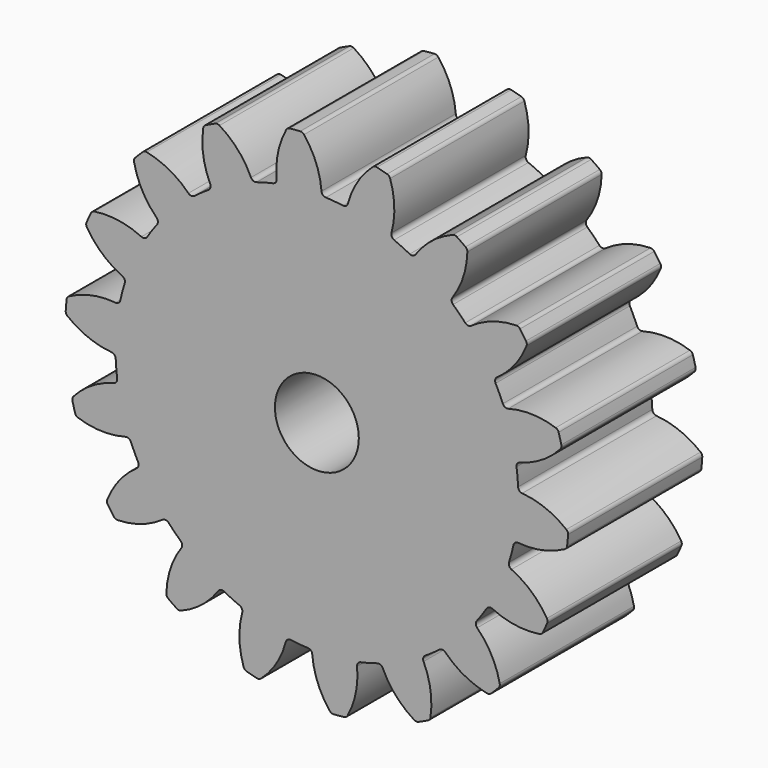
from build123d import *

# Parameters (mm, degrees)
F1_DEPTH = 4
F2_R     = 1
F3_DEPTH = 25


with BuildPart() as f1:
    # F0 (on Front) → F1 (new body)
    with BuildSketch(Plane.XZ):
        with BuildLine():
            ThreePointArc((0.110709, 4.894297), (-0.019503, 5.451317), (-0.306201, 5.946323))
            ThreePointArc((-0.306201, 5.946323), (-0.347043, 5.977827), (-0.397838, 5.986796))
            ThreePointArc((-0.397838, 5.986796), (-0.522934, 5.977168), (-0.647802, 5.964927))
            ThreePointArc((-0.647802, 5.964927), (-0.696268, 5.947274), (-0.731019, 5.909156))
            ThreePointArc((-0.731019, 5.909156), (-0.927405, 5.371886), (-0.958913, 4.800717))
            ThreePointArc((-0.958913, 4.800717), (-0.979159, 4.727143), (-1.042984, 4.685316))
            ThreePointArc((-1.042984, 4.685316), (-1.242331, 4.636444), (-1.439408, 4.579094))
            ThreePointArc((-1.439408, 4.579094), (-2.028568, 4.350277), (-2.582556, 4.046035))
            ThreePointArc((-2.582556, 4.046035), (-2.753167, 3.93193), (-2.918743, 3.810635))
            ThreePointArc((-2.918743, 3.810635), (-3.394113, 3.394113), (-3.810635, 2.918743))
            ThreePointArc((-3.810635, 2.918743), (-3.93193, 2.753167), (-4.046035, 2.582556))
            ThreePointArc((-4.046035, 2.582556), (-4.350277, 2.028568), (-4.579094, 1.439408))
            ThreePointArc((-4.579094, 1.439408), (-4.636444, 1.242331), (-4.685316, 1.042984))
            ThreePointArc((-4.685316, 1.042984), (-4.781735, 0.418348), (-4.795248, -0.213542))
            ThreePointArc((-4.795248, -0.213542), (-4.781735, -0.418348), (-4.759478, -0.622388))
            ThreePointArc((-4.759478, -0.622388), (-4.636444, -1.242331), (-4.433023, -1.840735))
            ThreePointArc((-4.433023, -1.840735), (-4.350277, -2.028568), (-4.259577, -2.212691))
            ThreePointArc((-4.259577, -2.212691), (-3.93193, -2.753167), (-3.536111, -3.245908))
            ThreePointArc((-3.536111, -3.245908), (-3.394113, -3.394113), (-3.245908, -3.536111))
            ThreePointArc((-3.245908, -3.536111), (-2.753167, -3.93193), (-2.212691, -4.259577))
            ThreePointArc((-2.212691, -4.259577), (-2.028568, -4.350277), (-1.840735, -4.433023))
            ThreePointArc((-1.840735, -4.433023), (-1.242331, -4.636444), (-0.622388, -4.759478))
            ThreePointArc((-0.622388, -4.759478), (-0.418348, -4.781735), (-0.213542, -4.795248))
            ThreePointArc((-0.213542, -4.795248), (0.418348, -4.781735), (1.042984, -4.685316))
            ThreePointArc((1.042984, -4.685316), (1.242331, -4.636444), (1.439408, -4.579094))
            ThreePointArc((1.439408, -4.579094), (2.028568, -4.350277), (2.582556, -4.046035))
            ThreePointArc((2.582556, -4.046035), (2.753167, -3.93193), (2.918743, -3.810635))
            ThreePointArc((2.918743, -3.810635), (3.394113, -3.394113), (3.810635, -2.918743))
            ThreePointArc((3.810635, -2.918743), (3.93193, -2.753167), (4.046035, -2.582556))
            ThreePointArc((4.046035, -2.582556), (4.350277, -2.028568), (4.579094, -1.439408))
            ThreePointArc((4.579094, -1.439408), (4.636444, -1.242331), (4.685316, -1.042984))
            ThreePointArc((4.685316, -1.042984), (4.781735, -0.418348), (4.795248, 0.213542))
            ThreePointArc((4.795248, 0.213542), (4.781735, 0.418348), (4.759478, 0.622388))
            ThreePointArc((4.759478, 0.622388), (4.636444, 1.242331), (4.433023, 1.840735))
            ThreePointArc((4.433023, 1.840735), (4.350277, 2.028568), (4.259577, 2.212691))
            ThreePointArc((4.259577, 2.212691), (3.93193, 2.753167), (3.536111, 3.245908))
            ThreePointArc((3.536111, 3.245908), (3.394113, 3.394113), (3.245908, 3.536111))
            ThreePointArc((3.245908, 3.536111), (2.753167, 3.93193), (2.212691, 4.259577))
            ThreePointArc((2.212691, 4.259577), (2.028568, 4.350277), (1.840735, 4.433023))
            ThreePointArc((1.840735, 4.433023), (1.242331, 4.636444), (0.622388, 4.759478))
            ThreePointArc((0.622388, 4.759478), (0.418348, 4.781735), (0.213542, 4.795248))
            ThreePointArc((0.213542, 4.795248), (0.143423, 4.825356), (0.110709, 4.894297))
        make_face()
        with BuildLine():
            ThreePointArc((0.740859, 4.839166), (0.69667, 4.776953), (0.622388, 4.759478))
            ThreePointArc((0.622388, 4.759478), (1.242331, 4.636444), (1.840735, 4.433023))
            ThreePointArc((1.840735, 4.433023), (1.785143, 4.485298), (1.777981, 4.56127))
            ThreePointArc((1.777981, 4.56127), (1.846134, 5.129233), (1.746027, 5.692443))
            ThreePointArc((1.746027, 5.692443), (1.718423, 5.736016), (1.673759, 5.761817))
            ThreePointArc((1.673759, 5.761817), (1.552914, 5.795555), (1.43139, 5.826759))
            ThreePointArc((1.43139, 5.826759), (1.37981, 5.826747), (1.334118, 5.802814))
            ThreePointArc((1.334118, 5.802814), (0.965818, 5.365113), (0.740859, 4.839166))
        make_face()
        with BuildLine():
            ThreePointArc((2.351272, 4.29394), (2.28847, 4.250592), (2.212691, 4.259577))
            ThreePointArc((2.212691, 4.259577), (2.753167, 3.93193), (3.245908, 3.536111))
            ThreePointArc((3.245908, 3.536111), (3.211547, 3.604246), (3.230802, 3.678087))
            ThreePointArc((3.230802, 3.678087), (3.489099, 4.188488), (3.587659, 4.75197))
            ThreePointArc((3.587659, 4.75197), (3.576622, 4.802356), (3.543477, 4.841877))
            ThreePointArc((3.543477, 4.841877), (3.441459, 4.914912), (3.337936, 4.985798))
            ThreePointArc((3.337936, 4.985798), (3.289462, 5.003428), (3.23834, 4.996566))
            ThreePointArc((3.23834, 4.996566), (2.742549, 4.711228), (2.351272, 4.29394))
        make_face()
        with BuildLine():
            ThreePointArc((-2.582556, 4.046035), (-2.028568, 4.350277), (-1.439408, 4.579094))
            ThreePointArc((-1.439408, 4.579094), (-1.515595, 4.583405), (-1.569916, 4.637))
            ThreePointArc((-1.569916, 4.637), (-1.882787, 5.115892), (-2.321497, 5.482989))
            ThreePointArc((-2.321497, 5.482989), (-2.370651, 5.498624), (-2.42145, 5.489679))
            ThreePointArc((-2.42145, 5.489679), (-2.53571, 5.437847), (-2.64886, 5.383636))
            ThreePointArc((-2.64886, 5.383636), (-2.688365, 5.350472), (-2.707983, 5.302767))
            ThreePointArc((-2.707983, 5.302767), (-2.708769, 4.730731), (-2.543026, 4.183231))
            ThreePointArc((-2.543026, 4.183231), (-2.536886, 4.107169), (-2.582556, 4.046035))
        make_face()
        with BuildLine():
            ThreePointArc((3.678087, 3.230802), (3.604246, 3.211547), (3.536111, 3.245908))
            ThreePointArc((3.536111, 3.245908), (3.93193, 2.753167), (4.259577, 2.212691))
            ThreePointArc((4.259577, 2.212691), (4.250592, 2.28847), (4.29394, 2.351272))
            ThreePointArc((4.29394, 2.351272), (4.711228, 2.742549), (4.996566, 3.23834))
            ThreePointArc((4.996566, 3.23834), (5.003428, 3.289462), (4.985798, 3.337936))
            ThreePointArc((4.985798, 3.337936), (4.914912, 3.441459), (4.841877, 3.543477))
            ThreePointArc((4.841877, 3.543477), (4.802356, 3.576622), (4.75197, 3.587659))
            ThreePointArc((4.75197, 3.587659), (4.188488, 3.489099), (3.678087, 3.230802))
        make_face()
        with BuildLine():
            ThreePointArc((-3.810635, 2.918743), (-3.394113, 3.394113), (-2.918743, 3.810635))
            ThreePointArc((-2.918743, 3.810635), (-2.99181, 3.788628), (-3.061185, 3.820412))
            ThreePointArc((-3.061185, 3.820412), (-3.518979, 4.163415), (-4.056787, 4.358325))
            ThreePointArc((-4.056787, 4.358325), (-4.108324, 4.356206), (-4.153, 4.330426))
            ThreePointArc((-4.153, 4.330426), (-4.242641, 4.242641), (-4.330426, 4.153))
            ThreePointArc((-4.330426, 4.153), (-4.356206, 4.108324), (-4.358325, 4.056787))
            ThreePointArc((-4.358325, 4.056787), (-4.163415, 3.518979), (-3.820412, 3.061185))
            ThreePointArc((-3.820412, 3.061185), (-3.788628, 2.99181), (-3.810635, 2.918743))
        make_face()
        with BuildLine():
            ThreePointArc((4.56127, 1.777981), (4.485298, 1.785143), (4.433023, 1.840735))
            ThreePointArc((4.433023, 1.840735), (4.636444, 1.242331), (4.759478, 0.622388))
            ThreePointArc((4.759478, 0.622388), (4.776953, 0.69667), (4.839166, 0.740859))
            ThreePointArc((4.839166, 0.740859), (5.365113, 0.965818), (5.802814, 1.334118))
            ThreePointArc((5.802814, 1.334118), (5.826747, 1.37981), (5.826759, 1.43139))
            ThreePointArc((5.826759, 1.43139), (5.795555, 1.552914), (5.761817, 1.673759))
            ThreePointArc((5.761817, 1.673759), (5.736016, 1.718423), (5.692443, 1.746027))
            ThreePointArc((5.692443, 1.746027), (5.129233, 1.846134), (4.56127, 1.777981))
        make_face()
        with BuildLine():
            ThreePointArc((-4.579094, 1.439408), (-4.350277, 2.028568), (-4.046035, 2.582556))
            ThreePointArc((-4.046035, 2.582556), (-4.107169, 2.536886), (-4.183231, 2.543026))
            ThreePointArc((-4.183231, 2.543026), (-4.730731, 2.708769), (-5.302767, 2.707983))
            ThreePointArc((-5.302767, 2.707983), (-5.350472, 2.688365), (-5.383636, 2.64886))
            ThreePointArc((-5.383636, 2.64886), (-5.437847, 2.53571), (-5.489679, 2.42145))
            ThreePointArc((-5.489679, 2.42145), (-5.498624, 2.370651), (-5.482989, 2.321497))
            ThreePointArc((-5.482989, 2.321497), (-5.115892, 1.882787), (-4.637, 1.569916))
            ThreePointArc((-4.637, 1.569916), (-4.583405, 1.515595), (-4.579094, 1.439408))
        make_face()
        with BuildLine():
            ThreePointArc((4.894297, 0.110709), (4.825356, 0.143423), (4.795248, 0.213542))
            ThreePointArc((4.795248, 0.213542), (4.781735, -0.418348), (4.685316, -1.042984))
            ThreePointArc((4.685316, -1.042984), (4.727143, -0.979159), (4.800717, -0.958913))
            ThreePointArc((4.800717, -0.958913), (5.371886, -0.927405), (5.909156, -0.731019))
            ThreePointArc((5.909156, -0.731019), (5.947274, -0.696268), (5.964927, -0.647802))
            ThreePointArc((5.964927, -0.647802), (5.977168, -0.522934), (5.986796, -0.397838))
            ThreePointArc((5.986796, -0.397838), (5.977827, -0.347043), (5.946323, -0.306201))
            ThreePointArc((5.946323, -0.306201), (5.451317, -0.019503), (4.894297, 0.110709))
        make_face()
        with BuildLine():
            ThreePointArc((-4.795248, -0.213542), (-4.781735, 0.418348), (-4.685316, 1.042984))
            ThreePointArc((-4.685316, 1.042984), (-4.727143, 0.979159), (-4.800717, 0.958913))
            ThreePointArc((-4.800717, 0.958913), (-5.371886, 0.927405), (-5.909156, 0.731019))
            ThreePointArc((-5.909156, 0.731019), (-5.947274, 0.696268), (-5.964927, 0.647802))
            ThreePointArc((-5.964927, 0.647802), (-5.977168, 0.522934), (-5.986796, 0.397838))
            ThreePointArc((-5.986796, 0.397838), (-5.977827, 0.347043), (-5.946323, 0.306201))
            ThreePointArc((-5.946323, 0.306201), (-5.451317, 0.019503), (-4.894297, -0.110709))
            ThreePointArc((-4.894297, -0.110709), (-4.825356, -0.143423), (-4.795248, -0.213542))
        make_face()
        with BuildLine():
            ThreePointArc((4.637, -1.569916), (4.583405, -1.515595), (4.579094, -1.439408))
            ThreePointArc((4.579094, -1.439408), (4.350277, -2.028568), (4.046035, -2.582556))
            ThreePointArc((4.046035, -2.582556), (4.107169, -2.536886), (4.183231, -2.543026))
            ThreePointArc((4.183231, -2.543026), (4.730731, -2.708769), (5.302767, -2.707983))
            ThreePointArc((5.302767, -2.707983), (5.350472, -2.688365), (5.383636, -2.64886))
            ThreePointArc((5.383636, -2.64886), (5.437847, -2.53571), (5.489679, -2.42145))
            ThreePointArc((5.489679, -2.42145), (5.498624, -2.370651), (5.482989, -2.321497))
            ThreePointArc((5.482989, -2.321497), (5.115892, -1.882787), (4.637, -1.569916))
        make_face()
        with BuildLine():
            ThreePointArc((-4.433023, -1.840735), (-4.636444, -1.242331), (-4.759478, -0.622388))
            ThreePointArc((-4.759478, -0.622388), (-4.776953, -0.69667), (-4.839166, -0.740859))
            ThreePointArc((-4.839166, -0.740859), (-5.365113, -0.965818), (-5.802814, -1.334118))
            ThreePointArc((-5.802814, -1.334118), (-5.826747, -1.37981), (-5.826759, -1.43139))
            ThreePointArc((-5.826759, -1.43139), (-5.795555, -1.552914), (-5.761817, -1.673759))
            ThreePointArc((-5.761817, -1.673759), (-5.736016, -1.718423), (-5.692443, -1.746027))
            ThreePointArc((-5.692443, -1.746027), (-5.129233, -1.846134), (-4.56127, -1.777981))
            ThreePointArc((-4.56127, -1.777981), (-4.485298, -1.785143), (-4.433023, -1.840735))
        make_face()
        with BuildLine():
            ThreePointArc((3.820412, -3.061185), (3.788628, -2.99181), (3.810635, -2.918743))
            ThreePointArc((3.810635, -2.918743), (3.394113, -3.394113), (2.918743, -3.810635))
            ThreePointArc((2.918743, -3.810635), (2.99181, -3.788628), (3.061185, -3.820412))
            ThreePointArc((3.061185, -3.820412), (3.518979, -4.163415), (4.056787, -4.358325))
            ThreePointArc((4.056787, -4.358325), (4.108324, -4.356206), (4.153, -4.330426))
            ThreePointArc((4.153, -4.330426), (4.242641, -4.242641), (4.330426, -4.153))
            ThreePointArc((4.330426, -4.153), (4.356206, -4.108324), (4.358325, -4.056787))
            ThreePointArc((4.358325, -4.056787), (4.163415, -3.518979), (3.820412, -3.061185))
        make_face()
        with BuildLine():
            ThreePointArc((-3.536111, -3.245908), (-3.93193, -2.753167), (-4.259577, -2.212691))
            ThreePointArc((-4.259577, -2.212691), (-4.250592, -2.28847), (-4.29394, -2.351272))
            ThreePointArc((-4.29394, -2.351272), (-4.711228, -2.742549), (-4.996566, -3.23834))
            ThreePointArc((-4.996566, -3.23834), (-5.003428, -3.289462), (-4.985798, -3.337936))
            ThreePointArc((-4.985798, -3.337936), (-4.914912, -3.441459), (-4.841877, -3.543477))
            ThreePointArc((-4.841877, -3.543477), (-4.802356, -3.576622), (-4.75197, -3.587659))
            ThreePointArc((-4.75197, -3.587659), (-4.188488, -3.489099), (-3.678087, -3.230802))
            ThreePointArc((-3.678087, -3.230802), (-3.604246, -3.211547), (-3.536111, -3.245908))
        make_face()
        with BuildLine():
            ThreePointArc((2.543026, -4.183231), (2.536886, -4.107169), (2.582556, -4.046035))
            ThreePointArc((2.582556, -4.046035), (2.028568, -4.350277), (1.439408, -4.579094))
            ThreePointArc((1.439408, -4.579094), (1.515595, -4.583405), (1.569916, -4.637))
            ThreePointArc((1.569916, -4.637), (1.882787, -5.115892), (2.321497, -5.482989))
            ThreePointArc((2.321497, -5.482989), (2.370651, -5.498624), (2.42145, -5.489679))
            ThreePointArc((2.42145, -5.489679), (2.53571, -5.437847), (2.64886, -5.383636))
            ThreePointArc((2.64886, -5.383636), (2.688365, -5.350472), (2.707983, -5.302767))
            ThreePointArc((2.707983, -5.302767), (2.708769, -4.730731), (2.543026, -4.183231))
        make_face()
        with BuildLine():
            ThreePointArc((-2.212691, -4.259577), (-2.753167, -3.93193), (-3.245908, -3.536111))
            ThreePointArc((-3.245908, -3.536111), (-3.211547, -3.604246), (-3.230802, -3.678087))
            ThreePointArc((-3.230802, -3.678087), (-3.489099, -4.188488), (-3.587659, -4.75197))
            ThreePointArc((-3.587659, -4.75197), (-3.576622, -4.802356), (-3.543477, -4.841877))
            ThreePointArc((-3.543477, -4.841877), (-3.441459, -4.914912), (-3.337936, -4.985798))
            ThreePointArc((-3.337936, -4.985798), (-3.289462, -5.003428), (-3.23834, -4.996566))
            ThreePointArc((-3.23834, -4.996566), (-2.742549, -4.711228), (-2.351272, -4.29394))
            ThreePointArc((-2.351272, -4.29394), (-2.28847, -4.250592), (-2.212691, -4.259577))
        make_face()
        with BuildLine():
            ThreePointArc((0.958913, -4.800717), (0.979159, -4.727143), (1.042984, -4.685316))
            ThreePointArc((1.042984, -4.685316), (0.418348, -4.781735), (-0.213542, -4.795248))
            ThreePointArc((-0.213542, -4.795248), (-0.143423, -4.825356), (-0.110709, -4.894297))
            ThreePointArc((-0.110709, -4.894297), (0.019503, -5.451317), (0.306201, -5.946323))
            ThreePointArc((0.306201, -5.946323), (0.347043, -5.977827), (0.397838, -5.986796))
            ThreePointArc((0.397838, -5.986796), (0.522934, -5.977168), (0.647802, -5.964927))
            ThreePointArc((0.647802, -5.964927), (0.696268, -5.947274), (0.731019, -5.909156))
            ThreePointArc((0.731019, -5.909156), (0.927405, -5.371886), (0.958913, -4.800717))
        make_face()
        with BuildLine():
            ThreePointArc((-0.622388, -4.759478), (-1.242331, -4.636444), (-1.840735, -4.433023))
            ThreePointArc((-1.840735, -4.433023), (-1.785143, -4.485298), (-1.777981, -4.56127))
            ThreePointArc((-1.777981, -4.56127), (-1.846134, -5.129233), (-1.746027, -5.692443))
            ThreePointArc((-1.746027, -5.692443), (-1.718423, -5.736016), (-1.673759, -5.761817))
            ThreePointArc((-1.673759, -5.761817), (-1.552914, -5.795555), (-1.43139, -5.826759))
            ThreePointArc((-1.43139, -5.826759), (-1.37981, -5.826747), (-1.334118, -5.802814))
            ThreePointArc((-1.334118, -5.802814), (-0.965818, -5.365113), (-0.740859, -4.839166))
            ThreePointArc((-0.740859, -4.839166), (-0.69667, -4.776953), (-0.622388, -4.759478))
        make_face()
    extrude(amount=F1_DEPTH)

    # F2 (on face) → F3 (cut)
    with BuildSketch(Plane.XZ.offset(4)):
        Circle(F2_R)
    extrude(amount=-F3_DEPTH, mode=Mode.SUBTRACT)


solid = f1.part
